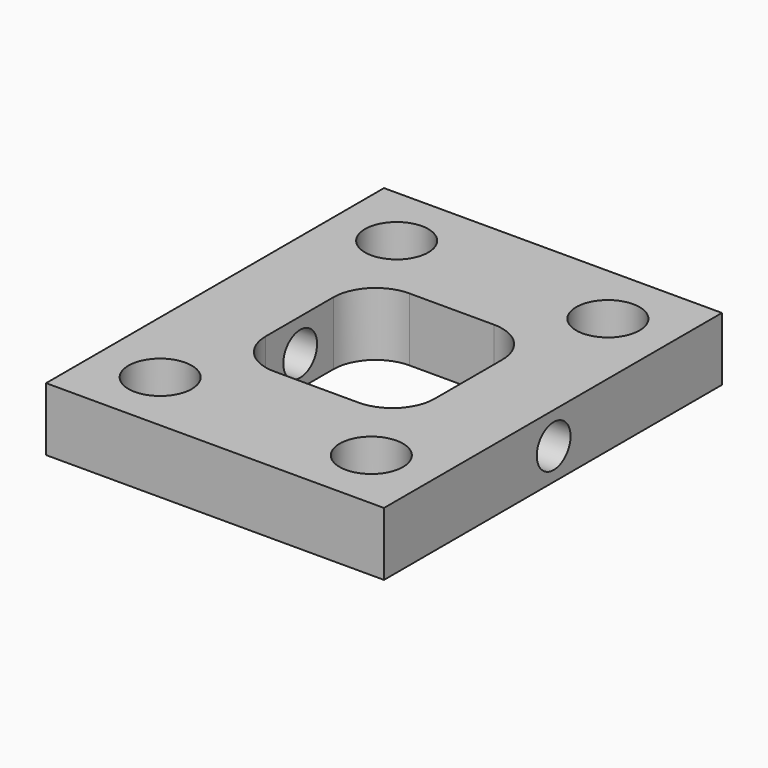
from build123d import *

# Parameters (mm, degrees)
F0_R     = 9.525
F1_DEPTH = 19.05
F3_D     = 12.7
F3_DEPTH = 127
F3_TIP   = 3.8154649308
F5_D     = 12.7
F5_DEPTH = 61.4731924625


with BuildPart() as f1:
    # F0 (on Top) → F1 (new body)
    with BuildSketch(Plane.XY):
        Polygon((40.1278075375, 55.6749581326), (-61.4721924625, 55.6749581326), (-61.4721924625, 36.6249581326), (-61.4721924625, -71.3250418674), (40.1278075375, -71.3250418674), align=None)
        with Locations((-42.4221924625, -52.2750418674)):
            Circle(F0_R, mode=Mode.SUBTRACT)
        with Locations((21.0778075375, -52.2750418674)):
            Circle(F0_R, mode=Mode.SUBTRACT)
        with Locations((-42.4221924625, 36.6249581326)):
            Circle(F0_R, mode=Mode.SUBTRACT)
        with BuildLine():
            Line((-36.0721924625, -20.5250418674), (-36.0721924625, 4.8749581326))
            ThreePointArc((-36.0721924625, 4.8749581326), (-32.3524485836, 13.8552142537), (-23.3721924625, 17.5749581326))
            Line((-23.3721924625, 17.5749581326), (2.0278075375, 17.5749581326))
            ThreePointArc((2.0278075375, 17.5749581326), (11.0080636586, 13.8552142537), (14.7278075375, 4.8749581326))
            Line((14.7278075375, 4.8749581326), (14.7278075375, -20.5250418674))
            ThreePointArc((14.7278075375, -20.5250418674), (11.0080636586, -29.5052979885), (2.0278075375, -33.2250418674))
            Line((2.0278075375, -33.2250418674), (-23.3721924625, -33.2250418674))
            ThreePointArc((-23.3721924625, -33.2250418674), (-32.3524485836, -29.5052979885), (-36.0721924625, -20.5250418674))
        make_face(mode=Mode.SUBTRACT)
        with Locations((21.0778075375, 36.6249581326)):
            Circle(F0_R, mode=Mode.SUBTRACT)
    extrude(amount=F1_DEPTH)

    # F3 (one way)
    with BuildSketch(Plane(origin=(0, 0, 0), x_dir=(0, 1, 0), z_dir=(-1, 0, 0))):
        with Locations((-7.5595228386, -9.525)):
            Circle(F3_D / 2)
    extrude(amount=-F3_DEPTH, mode=Mode.SUBTRACT)
    with Locations(Plane(origin=(0, 0, 0), x_dir=(0, 1, 0), z_dir=(-1, 0, 0))):
        with Locations((-7.5595228386, -9.525)):
            with Locations((0, 0, -(F3_DEPTH + F3_TIP / 2))):  # 118° drill point
                Cone(0, F3_D / 2, F3_TIP, mode=Mode.SUBTRACT)

    # F5 (through all, one way)
    with BuildSketch(Plane.YZ):
        with Locations((-7.5732805474, 9.1754648791)):
            Circle(F5_D / 2)
    extrude(amount=-F5_DEPTH, mode=Mode.SUBTRACT)


solid = f1.part
